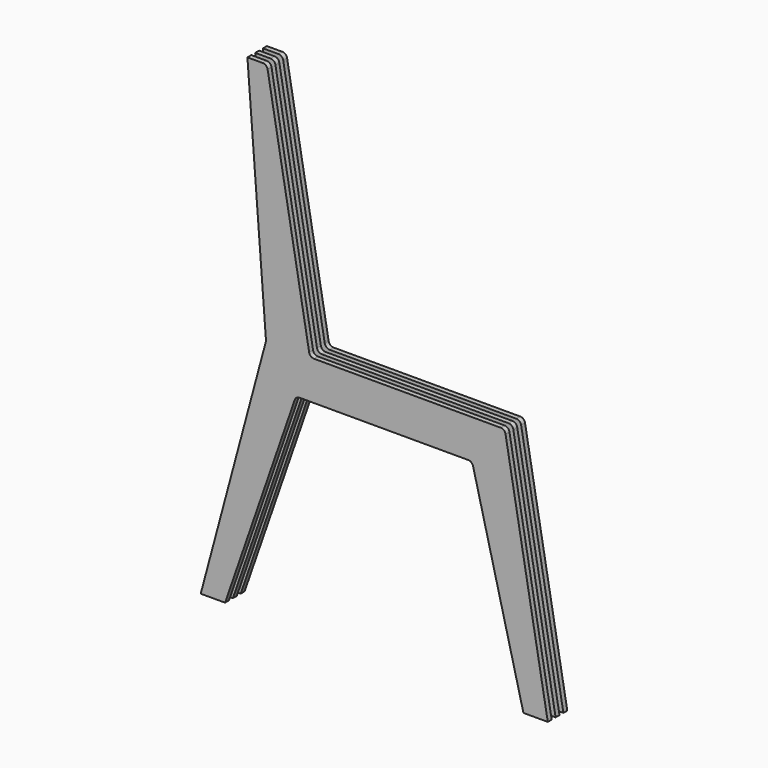
from build123d import *

# Parameters (mm, degrees)
F2_DEPTH = 1


with BuildPart() as f2:
    # F1 (on Front) → F2 (new body)
    with BuildSketch(Plane.XZ):
        with BuildLine():
            Line((-24.2570682405, -0.164802935), (-37.6103690488, -50))
            Line((-37.6103690488, -50), (-32.6103690488, -50))
            Line((-32.6103690488, -50), (-18.3071951554, -8.6729373776))
            ThreePointArc((-18.3071951554, -8.6729373776), (-17.9422516996, -8.1854256871), (-17.3621924882, -8))
            Line((-17.3621924882, -8), (17.2940425429, -8))
            ThreePointArc((17.2940425429, -8), (17.9091973598, -8.2115936637), (18.2640264539, -8.7568308976))
            Line((18.2640264539, -8.7568308976), (28.6034396082, -50))
            Line((28.6034396082, -50), (33.6034396082, -50))
            Line((33.6034396082, -50), (24.9327986946, -0.8263518223))
            ThreePointArc((24.9327986946, -0.8263518223), (24.5907785513, -0.2339555569), (23.9479909416, 0))
            Line((23.9479909416, 0), (-14.373809796, 0))
            ThreePointArc((-14.373809796, 0), (-15.0165974057, 0.2339555569), (-15.358617549, 0.8263518223))
            Line((-15.358617549, 0.8263518223), (-23.8835503408, 49.1736481777))
            ThreePointArc((-23.8835503408, 49.1736481777), (-24.2255704841, 49.7660444431), (-24.8683580938, 50))
            Line((-24.8683580938, 50), (-28.0292584626, 50))
            Line((-28.0292584626, 50), (-24.2258943048, 0.1701217244))
            ThreePointArc((-24.2258943048, 0.1701217244), (-24.2272978295, 0.0013392359), (-24.2570682405, -0.164802935))
        make_face()
    extrude(amount=F2_DEPTH)


with BuildPart() as f3_1:
    # F3: copy of F2
    add(f2.part.moved(Location((0, 2, 0))))


with BuildPart() as f4_1:
    # F4: copy of F3_1
    add(f3_1.part.moved(Location((0, 2, 0))))


solid = Compound([f2.part, f3_1.part, f4_1.part])
